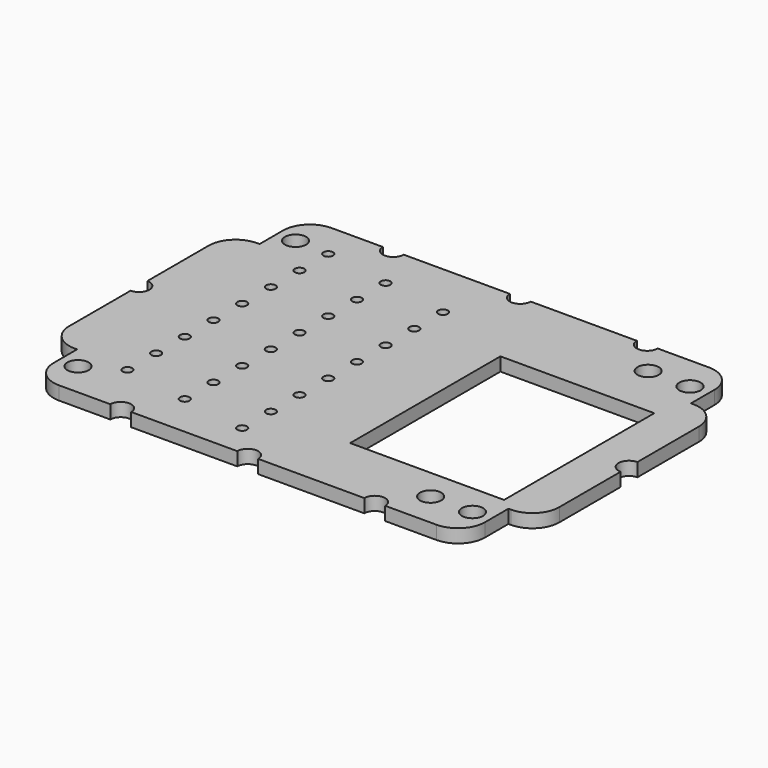
from build123d import *

# Parameters (mm, degrees)
F0_R     = 3.55
F1_DEPTH = 4.5
F2_W     = 51.5
F2_H     = 62.85
F3_DEPTH = 4.501
F4_R     = 1.6
F5_DEPTH = 4.501
F6_R     = 4
F7_DEPTH = 2.5


with BuildPart() as f1:
    # F0 (on Top) → F1 (new body)
    with BuildSketch(Plane.XY):
        with BuildLine():
            ThreePointArc((-72.175, -48), (-69.538961, -54.363961), (-63.175, -57))
            Line((-63.175, -57), (-46, -57))
            ThreePointArc((-46, -57), (-42.5, -53.5), (-39, -57))
            Line((-39, -57), (-3.5, -57))
            ThreePointArc((-3.5, -57), (0, -53.5), (3.5, -57))
            Line((3.5, -57), (39, -57))
            ThreePointArc((39, -57), (42.5, -53.5), (46, -57))
            Line((46, -57), (63.175, -57))
            ThreePointArc((63.175, -57), (69.538961, -54.363961), (72.175, -48))
            Line((72.175, -48), (72.175, -38.175))
            Line((72.175, -38.175), (73, -38.175))
            ThreePointArc((73, -38.175), (79.363961, -35.538961), (82, -29.175))
            Line((82, -29.175), (82, -3.5))
            ThreePointArc((82, -3.5), (78.5, 0), (82, 3.5))
            Line((82, 3.5), (82, 29.175))
            ThreePointArc((82, 29.175), (79.363961, 35.538961), (73, 38.175))
            Line((73, 38.175), (72.175, 38.175))
            Line((72.175, 38.175), (72.175, 48))
            ThreePointArc((72.175, 48), (69.538961, 54.363961), (63.175, 57))
            Line((63.175, 57), (46, 57))
            ThreePointArc((46, 57), (42.5, 53.5), (39, 57))
            Line((39, 57), (3.5, 57))
            ThreePointArc((3.5, 57), (0, 53.5), (-3.5, 57))
            Line((-3.5, 57), (-39, 57))
            ThreePointArc((-39, 57), (-42.5, 53.5), (-46, 57))
            Line((-46, 57), (-63.175, 57))
            ThreePointArc((-63.175, 57), (-69.538961, 54.363961), (-72.175, 48))
            Line((-72.175, 48), (-72.175, 38.175))
            Line((-72.175, 38.175), (-73, 38.175))
            ThreePointArc((-73, 38.175), (-79.363961, 35.538961), (-82, 29.175))
            Line((-82, 29.175), (-82, 3.5))
            ThreePointArc((-82, 3.5), (-78.5, 0), (-82, -3.5))
            Line((-82, -3.5), (-82, -29.175))
            ThreePointArc((-82, -29.175), (-79.363961, -35.538961), (-73, -38.175))
            Line((-73, -38.175), (-72.175, -38.175))
            Line((-72.175, -38.175), (-72.175, -48))
        make_face()
        with Locations((-66, -45.5)):
            Circle(F0_R, mode=Mode.SUBTRACT)
        with Locations((52, -45.5)):
            Circle(F0_R, mode=Mode.SUBTRACT)
        with Locations((66, -45.5)):
            Circle(F0_R, mode=Mode.SUBTRACT)
        with Locations((-66, 45.5)):
            Circle(F0_R, mode=Mode.SUBTRACT)
        with Locations((52, 45.5)):
            Circle(F0_R, mode=Mode.SUBTRACT)
        with Locations((66, 45.5)):
            Circle(F0_R, mode=Mode.SUBTRACT)
    extrude(amount=F1_DEPTH)

    # F2 (on face) → F3 (cut, through all)
    with BuildSketch(Plane.XY.offset(4.5)):
        with Locations((42.425, -3.575)):
            Rectangle(F2_W, F2_H)
    extrude(amount=-F3_DEPTH, mode=Mode.SUBTRACT)

    # F4 (on face) → F5 (cut, through all)
    with BuildSketch(Plane.XY.offset(4.5)):
        with Locations((-54.6625, 45)):
            Circle(F4_R)
        with Locations((-54.6625, 33)):
            Circle(F4_R)
        with Locations((-54.6625, 21)):
            Circle(F4_R)
        with Locations((-54.6625, 9)):
            Circle(F4_R)
        with Locations((-54.6625, -3)):
            Circle(F4_R)
        with Locations((-54.6625, -15)):
            Circle(F4_R)
        with Locations((-54.6625, -27)):
            Circle(F4_R)
        with Locations((-54.6625, -39)):
            Circle(F4_R)
        with Locations((-10.6625, 38)):
            Circle(F4_R)
        with Locations((-10.6625, 26)):
            Circle(F4_R)
        with Locations((-10.6625, 14)):
            Circle(F4_R)
        with Locations((-10.6625, 2)):
            Circle(F4_R)
        with Locations((-10.6625, -10)):
            Circle(F4_R)
        with Locations((-10.6625, -22)):
            Circle(F4_R)
        with Locations((-10.6625, -34)):
            Circle(F4_R)
        with Locations((-10.6625, -46)):
            Circle(F4_R)
        with Locations((-32.6625, 41.5)):
            Circle(F4_R)
        with Locations((-32.6625, 29.5)):
            Circle(F4_R)
        with Locations((-32.6625, 17.5)):
            Circle(F4_R)
        with Locations((-32.6625, 5.5)):
            Circle(F4_R)
        with Locations((-32.6625, -6.5)):
            Circle(F4_R)
        with Locations((-32.6625, -18.5)):
            Circle(F4_R)
        with Locations((-32.6625, -30.5)):
            Circle(F4_R)
        with Locations((-32.6625, -42.5)):
            Circle(F4_R)
    extrude(amount=-F5_DEPTH, mode=Mode.SUBTRACT)

    # F6 (on face) → F7 (cut)
    with BuildSketch(Plane(origin=(0, 0, 0), x_dir=(1, 0, 0), z_dir=(0, 0, -1))):
        with Locations((-10.6625, 46)):
            Circle(F6_R)
        with Locations((-10.6625, 34)):
            Circle(F6_R)
        with Locations((-10.6625, 22)):
            Circle(F6_R)
        with Locations((-10.6625, 10)):
            Circle(F6_R)
        with Locations((-10.6625, -2)):
            Circle(F6_R)
        with Locations((-10.6625, -14)):
            Circle(F6_R)
        with Locations((-10.6625, -26)):
            Circle(F6_R)
        with Locations((-54.6625, 39)):
            Circle(F6_R)
        with Locations((-54.6625, 27)):
            Circle(F6_R)
        with Locations((-54.6625, 15)):
            Circle(F6_R)
        with Locations((-54.6625, 3)):
            Circle(F6_R)
        with Locations((-54.6625, -9)):
            Circle(F6_R)
        with Locations((-54.6625, -21)):
            Circle(F6_R)
        with Locations((-54.6625, -33)):
            Circle(F6_R)
        with Locations((-10.6625, -38)):
            Circle(F6_R)
        with Locations((-54.6625, -45)):
            Circle(F6_R)
        with Locations((-32.6625, 42.5)):
            Circle(F6_R)
        with Locations((-32.6625, 30.5)):
            Circle(F6_R)
        with Locations((-32.6625, 18.5)):
            Circle(F6_R)
        with Locations((-32.6625, 6.5)):
            Circle(F6_R)
        with Locations((-32.6625, -5.5)):
            Circle(F6_R)
        with Locations((-32.6625, -17.5)):
            Circle(F6_R)
        with Locations((-32.6625, -29.5)):
            Circle(F6_R)
        with Locations((-32.6625, -41.5)):
            Circle(F6_R)
    extrude(amount=-F7_DEPTH, mode=Mode.SUBTRACT)


solid = f1.part
